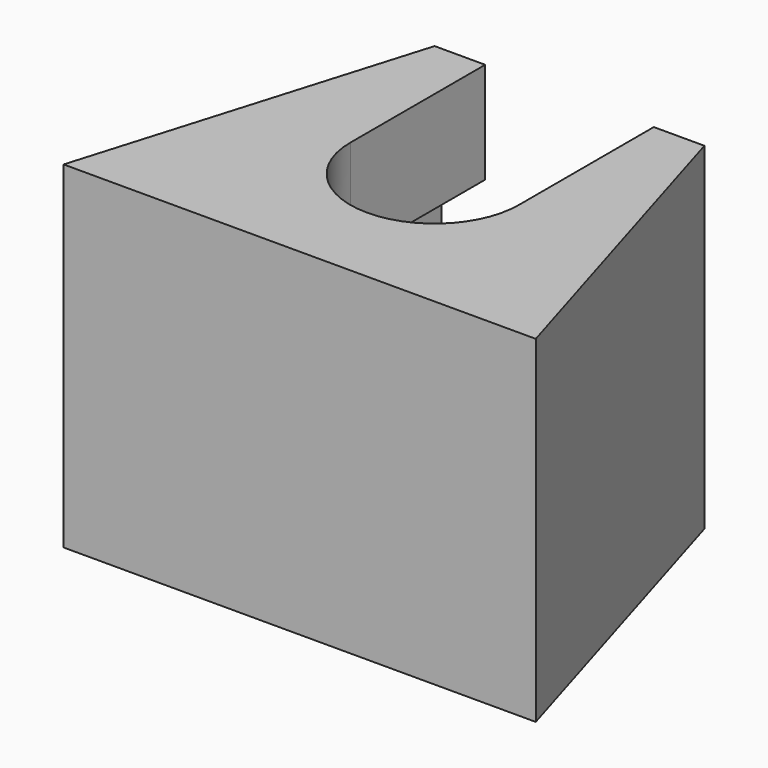
from build123d import *

# Parameters (mm, degrees)
PAD_DEPTH    = 2
PAD001_DEPTH = 3


with BuildPart() as part:
    # Sketch → Pad (new body, symmetric)
    with BuildSketch(Plane.XY):
        with BuildLine():
            Line((-7, -4.999991), (-4, 5.000009))
            Line((-4, 5.000009), (-3.799991, 5.000009))
            Line((-3.799991, 5.000009), (-3.799991, 0))
            ThreePointArc((-3.799991, 0), (0, -3.799991), (3.799991, 0))
            Line((3.799991, 5.000009), (3.799991, 0))
            Line((4, 5.000009), (3.799991, 5.000009))
            Line((4, 5.000009), (7, -4.999991))
            Line((7, -4.999991), (-7, -4.999991))
        make_face()
    extrude(amount=PAD_DEPTH, both=True)

    # Sketch004 (on Face10 of Pad) → Pad001 (join)
    with BuildSketch(Plane.XY.offset(2)):
        with BuildLine():
            ThreePointArc((-2.5, 0), (0, -2.5), (2.5, 0))
            Line((2.5, 5.000009), (2.5, 0))
            Line((4, 5.000009), (2.5, 5.000009))
            Line((4, 5.000009), (7, -4.999991))
            Line((7, -4.999991), (-7, -4.999991))
            Line((-7, -4.999991), (-4, 5.000009))
            Line((-4, 5.000009), (-2.5, 5.000009))
            Line((-2.5, 5.000009), (-2.5, 0))
        make_face()
    pad001 = extrude(amount=PAD001_DEPTH)

    # Mirrored: Pad001 across XY
    add(pad001.mirror(Plane.XY))


with BuildPart() as part_1:
    # Body placement: moved
    add(part.part.moved(Location((-23, 0, 0))))


solid = part_1.part
